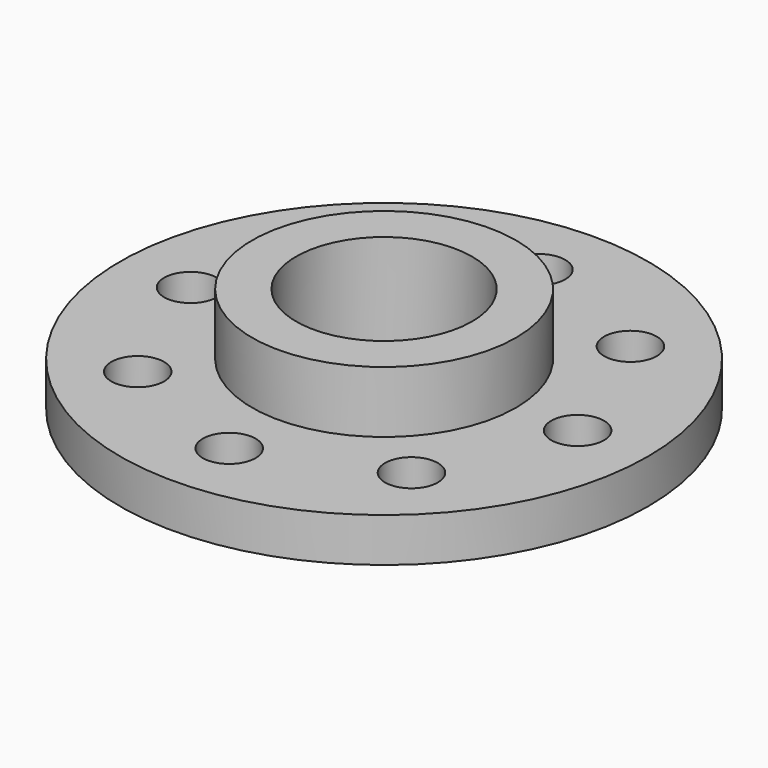
from build123d import *

# Parameters (mm, degrees)
CYLINDER003_R     = 3
CYLINDER003_DEPTH = 10
ARRAY_COUNT       = 8
CYLINDER002_R     = 10
CYLINDER002_DEPTH = 30
CYLINDER001_R     = 15
CYLINDER001_DEPTH = 12
CYLINDER_R        = 30
CYLINDER_DEPTH    = 5


with BuildPart() as array:
    # Cylinder003 → Cylinder003 (new body)
    with BuildSketch(Plane(origin=(22, 0, 0), x_dir=(1, 0, 0), z_dir=(0, 0, 1))):
        Circle(CYLINDER003_R)
    extrude(amount=CYLINDER003_DEPTH)

    # Array: Array ×8 about axis
    array_axis = Axis((0, 0, 0), (0, 0, 1))


with BuildPart() as array_1:
    add(array.part)
    for i in range(1, ARRAY_COUNT):
        add(array.part.rotate(array_axis, i * 360 / ARRAY_COUNT))


with BuildPart() as tubo_int:
    # Cylinder002 → Cylinder002 (new body)
    with BuildSketch(Plane.XY.offset(-1)):
        Circle(CYLINDER002_R)
    extrude(amount=CYLINDER002_DEPTH)


with BuildPart() as tubo_ext:
    # Cylinder001 → Cylinder001 (new body)
    with BuildSketch(Plane.XY):
        Circle(CYLINDER001_R)
    extrude(amount=CYLINDER001_DEPTH)


with BuildPart() as brida:
    # Cylinder → Cylinder (new body)
    with BuildSketch(Plane.XY):
        Circle(CYLINDER_R)
    extrude(amount=CYLINDER_DEPTH)

    # Fusion: union Tubo_ext
    add(tubo_ext.part)

    # Cut: cut Tubo_int
    add(tubo_int.part, mode=Mode.SUBTRACT)

    # Cut001: cut Array
    add(array_1.part, mode=Mode.SUBTRACT)


solid = brida.part
